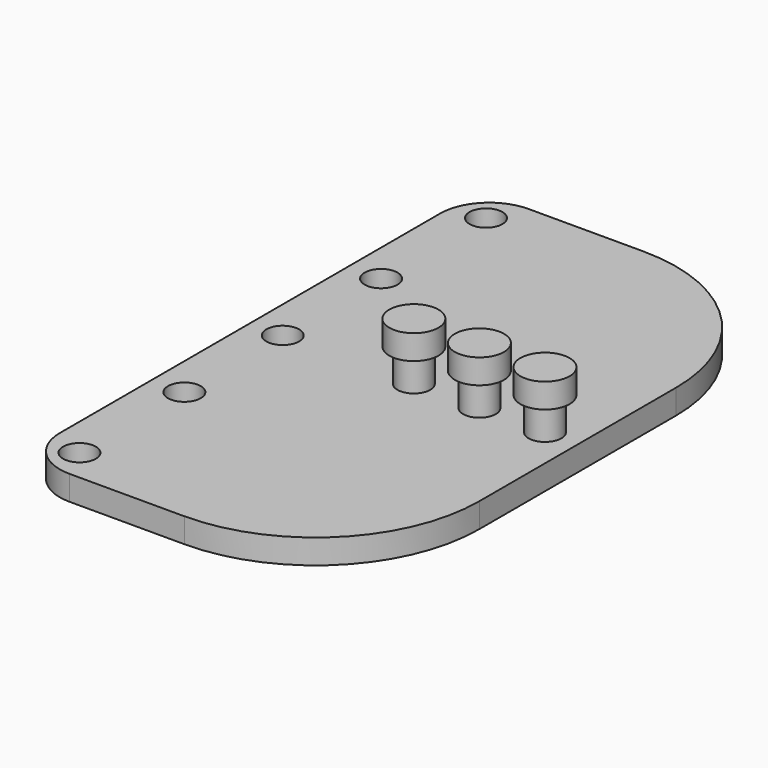
from build123d import *

# Parameters (mm, degrees)
F0_W     = 20
F0_H     = 35
F1_DEPTH = 1.5
F2_R     = 1
F3_DEPTH = 1.5
F4_R     = 3
F5_R     = 10
F6_R     = 1
F7_DEPTH = 2
F8_R     = 1.5
F8_R_2   = 1
F9_DEPTH = 1.5


with BuildPart() as f1:
    # F0 (on Top) → F1 (new body)
    with BuildSketch(Plane.XY):
        Rectangle(F0_W, F0_H)
    extrude(amount=-F1_DEPTH)

    # F2 (on face) → F3 (cut)
    with BuildSketch(Plane.XY):
        with Locations((-8, 15.5)):
            Circle(F2_R)
        with Locations((-8, 7.5)):
            Circle(F2_R)
        with Locations((-8, 0)):
            Circle(F2_R)
        with Locations((-8, -7.5)):
            Circle(F2_R)
        with Locations((-8, -15.5)):
            Circle(F2_R)
    extrude(amount=-F3_DEPTH, mode=Mode.SUBTRACT)

    # F4
    f4_edges = [f1.edges().sort_by_distance(p)[0] for p in [
        (-10, -17.5, -0.75),
        (-10, 17.5, -0.75),
    ]]
    fillet(f4_edges, radius=F4_R)

    # F5
    f5_edges = [f1.edges().sort_by_distance(p)[0] for p in [
        (10, 17.5, -0.75),
        (10, -17.5, -0.75),
    ]]
    fillet(f5_edges, radius=F5_R)

    # F6 (on face) → F7 (join)
    with BuildSketch(Plane.XY):
        Circle(F6_R)
        with Locations((4, 0)):
            Circle(F6_R)
        with Locations((8, 0)):
            Circle(F6_R)
    extrude(amount=F7_DEPTH)

    # F8 (on face) → F9 (join)
    with BuildSketch(Plane.XY.offset(2)):
        Circle(F8_R)
        Circle(F8_R_2, mode=Mode.SUBTRACT)
        with Locations((4, 0)):
            Circle(F8_R)
        with Locations((8, 0)):
            Circle(F8_R)
        Circle(F8_R_2)
    extrude(amount=F9_DEPTH)


solid = f1.part
